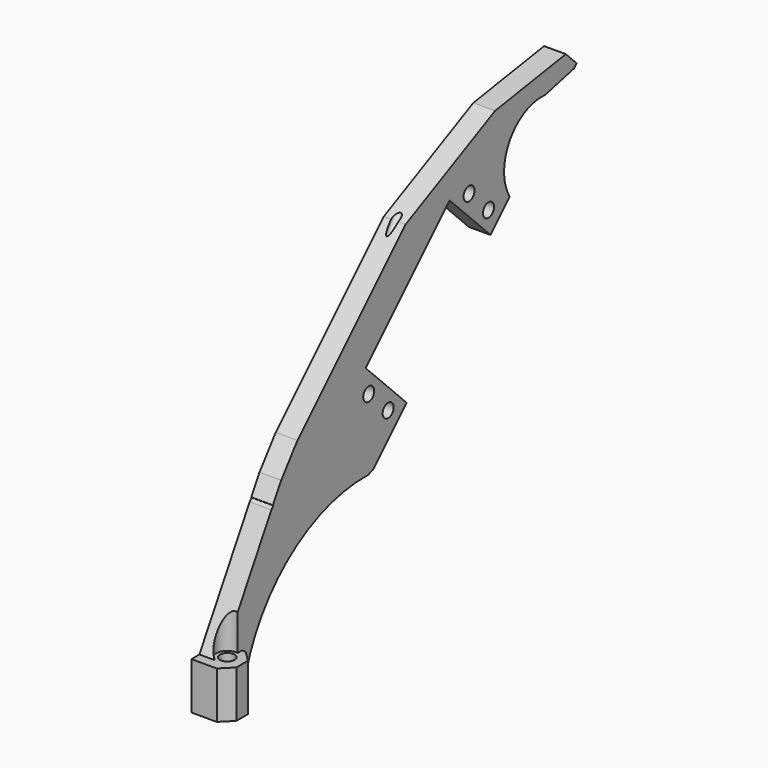
from build123d import *

# Parameters (mm, degrees)
CYLINDER025_R          = 1
CYLINDER025_DEPTH      = 96
CYLINDER025_ROLL_ANGLE = -33
CYLINDER020_R          = 2
CYLINDER020_DEPTH      = 16
CYLINDER024_R          = 3
CYLINDER024_DEPTH      = 16
CYLINDER022_R          = 3
CYLINDER022_DEPTH      = 16
BOX021_W               = 26
BOX021_H               = 23
BOX021_DEPTH           = 13
CYLINDER011_R          = 1.9
CYLINDER011_DEPTH      = 12
CYLINDER012_R          = 1.9
CYLINDER012_DEPTH      = 12
CYLINDER013_R          = 1.9
CYLINDER013_DEPTH      = 12
CYLINDER014_R          = 1.9
CYLINDER014_DEPTH      = 12
BOX008_W               = 41
BOX008_H               = 20
BOX008_DEPTH           = 12
BOX019_W               = 10
BOX019_H               = 10
BOX019_DEPTH           = 10
BOX019_PLACEMENT_ANGLE = 8
BOX018_W               = 14
BOX018_H               = 10
BOX018_DEPTH           = 10
BOX018_PLACEMENT_ANGLE = 16
BOX017_W               = 65
BOX017_H               = 11
BOX017_DEPTH           = 10
BOX017_PLACEMENT_ANGLE = 15
BOX016_W               = 76
BOX016_H               = 10
BOX016_DEPTH           = 10
BOX015_W               = 49
BOX015_H               = 10
BOX015_DEPTH           = 10
BOX015_PLACEMENT_ANGLE = -19
BOX014_W               = 53
BOX014_H               = 10
BOX014_DEPTH           = 10
BOX014_PLACEMENT_ANGLE = -36
BOX013_W               = 13
BOX013_H               = 11
BOX013_DEPTH           = 10
BOX012_W               = 23
BOX012_H               = 17
BOX012_DEPTH           = 10
BOX011_W               = 41
BOX011_H               = 6
BOX011_DEPTH           = 10
CYLINDER016_R          = 43
CYLINDER016_DEPTH      = 10
CYLINDER015_R          = 13
CYLINDER015_DEPTH      = 10
BOX010_W               = 37
BOX010_H               = 8
BOX010_DEPTH           = 12
BOX009_W               = 184
BOX009_H               = 34
BOX009_DEPTH           = 6
CHAMFER_SIZE           = 6
CHAMFER001_SIZE        = 1
CUT025_PITCH_ANGLE     = 90
FILLET_R               = 3
FILLET001_R            = 3
CUT035_ROLL_ANGLE      = -45
BOX024_W               = 10
BOX024_H               = 10
BOX024_DEPTH           = 13
CHAMFER002_SIZE        = 3
CHAMFER003_SIZE        = 3


with BuildPart() as cylinder025:
    # Cylinder025 → Cylinder025 (new body)
    with BuildSketch(Plane.XY):
        Circle(CYLINDER025_R)
    extrude(amount=CYLINDER025_DEPTH)


with BuildPart() as cylinder025_1:
    # Cylinder025 roll: moved
    add(cylinder025.part.rotate(Axis((0, 0, 0), (1, 0, 0)), CYLINDER025_ROLL_ANGLE))


with BuildPart() as cylinder025_2:
    # Cylinder025 placement: moved
    add(cylinder025_1.part.moved(Location((-2.5, 14, 31))))


with BuildPart() as cylinder020:
    # Cylinder020 → Cylinder020 (new body)
    with BuildSketch(Plane.XY.offset(9)):
        Circle(CYLINDER020_R)
    extrude(amount=CYLINDER020_DEPTH)


with BuildPart() as cylinder024:
    # Cylinder024 → Cylinder024 (new body)
    with BuildSketch(Plane.XY.offset(23)):
        Circle(CYLINDER024_R)
    extrude(amount=CYLINDER024_DEPTH)


with BuildPart() as not_used_cylinder001:
    # Cylinder022 → Cylinder022 (new body)
    with BuildSketch(Plane(origin=(0, -50, 23), x_dir=(1, 0, 0), z_dir=(0, 0, 1))):
        Circle(CYLINDER022_R)
    extrude(amount=CYLINDER022_DEPTH)


with BuildPart() as cube021:
    # Box021 → Box021 (new body)
    with BuildSketch(Plane(origin=(161, 15, -3), x_dir=(1, 0, 0), z_dir=(0, 0, 1))):
        with Locations((13, 11.5)):
            Rectangle(BOX021_W, BOX021_H)
    extrude(amount=BOX021_DEPTH)


with BuildPart() as cylinder011:
    # Cylinder011 → Cylinder011 (new body)
    with BuildSketch(Plane(origin=(38, 19.5, -1), x_dir=(1, 0, 0), z_dir=(0, 0, 1))):
        Circle(CYLINDER011_R)
    extrude(amount=CYLINDER011_DEPTH)


with BuildPart() as cylinder012:
    # Cylinder012 → Cylinder012 (new body)
    with BuildSketch(Plane(origin=(38, 29, -1), x_dir=(1, 0, 0), z_dir=(0, 0, 1))):
        Circle(CYLINDER012_R)
    extrude(amount=CYLINDER012_DEPTH)


with BuildPart() as cylinder013:
    # Cylinder013 → Cylinder013 (new body)
    with BuildSketch(Plane(origin=(87, 29, -1), x_dir=(1, 0, 0), z_dir=(0, 0, 1))):
        Circle(CYLINDER013_R)
    extrude(amount=CYLINDER013_DEPTH)


with BuildPart() as cylinder014:
    # Cylinder014 → Cylinder014 (new body)
    with BuildSketch(Plane(origin=(87, 19.5, -1), x_dir=(1, 0, 0), z_dir=(0, 0, 1))):
        Circle(CYLINDER014_R)
    extrude(amount=CYLINDER014_DEPTH)


with BuildPart() as cube008:
    # Box008 → Box008 (new body)
    with BuildSketch(Plane(origin=(42, 14, -1), x_dir=(1, 0, 0), z_dir=(0, 0, 1))):
        with Locations((20.5, 10)):
            Rectangle(BOX008_W, BOX008_H)
    extrude(amount=BOX008_DEPTH)


with BuildPart() as cube019:
    # Box019 → Box019 (new body)
    with BuildSketch(Plane.XY):
        with Locations((5, 5)):
            Rectangle(BOX019_W, BOX019_H)
    extrude(amount=BOX019_DEPTH)


with BuildPart() as cube019_1:
    # Box019 placement: moved
    add(cube019.part.moved(Location((106, -7, 0))).rotate(Axis((106, -7, 0), (0, 0, 1)), BOX019_PLACEMENT_ANGLE))


with BuildPart() as cube018:
    # Box018 → Box018 (new body)
    with BuildSketch(Plane.XY):
        with Locations((7, 5)):
            Rectangle(BOX018_W, BOX018_H)
    extrude(amount=BOX018_DEPTH)


with BuildPart() as cube018_1:
    # Box018 placement: moved
    add(cube018.part.moved(Location((174, 10, 0))).rotate(Axis((174, 10, 0), (0, 0, 1)), BOX018_PLACEMENT_ANGLE))


with BuildPart() as cube017:
    # Box017 → Box017 (new body)
    with BuildSketch(Plane.XY):
        with Locations((32.5, 5.5)):
            Rectangle(BOX017_W, BOX017_H)
    extrude(amount=BOX017_DEPTH)


with BuildPart() as cube017_1:
    # Box017 placement: moved
    add(cube017.part.moved(Location((115, -7, 0))).rotate(Axis((115, -7, 0), (0, 0, 1)), BOX017_PLACEMENT_ANGLE))


with BuildPart() as cube016:
    # Box016 → Box016 (new body)
    with BuildSketch(Plane(origin=(46, -7, 0), x_dir=(1, 0, 0), z_dir=(0, 0, 1))):
        with Locations((38, 5)):
            Rectangle(BOX016_W, BOX016_H)
    extrude(amount=BOX016_DEPTH)


with BuildPart() as cube015:
    # Box015 → Box015 (new body)
    with BuildSketch(Plane.XY):
        with Locations((24.5, 5)):
            Rectangle(BOX015_W, BOX015_H)
    extrude(amount=BOX015_DEPTH)


with BuildPart() as cube015_1:
    # Box015 placement: moved
    add(cube015.part.moved(Location((16, 5, 0))).rotate(Axis((16, 5, 0), (0, 0, 1)), BOX015_PLACEMENT_ANGLE))


with BuildPart() as cube014:
    # Box014 → Box014 (new body)
    with BuildSketch(Plane.XY):
        with Locations((26.5, 5)):
            Rectangle(BOX014_W, BOX014_H)
    extrude(amount=BOX014_DEPTH)


with BuildPart() as cube014_1:
    # Box014 placement: moved
    add(cube014.part.moved(Location((-16, 28, 0))).rotate(Axis((-16, 28, 0), (0, 0, 1)), BOX014_PLACEMENT_ANGLE))


with BuildPart() as cube013:
    # Box013 → Box013 (new body)
    with BuildSketch(Plane(origin=(0, 8, 0), x_dir=(1, 0, 0), z_dir=(0, 0, 1))):
        with Locations((6.5, 5.5)):
            Rectangle(BOX013_W, BOX013_H)
    extrude(amount=BOX013_DEPTH)


with BuildPart() as cube012:
    # Box012 → Box012 (new body)
    with BuildSketch(Plane(origin=(161, 0, 0), x_dir=(1, 0, 0), z_dir=(0, 0, 1))):
        with Locations((11.5, 8.5)):
            Rectangle(BOX012_W, BOX012_H)
    extrude(amount=BOX012_DEPTH)


with BuildPart() as cube011:
    # Box011 → Box011 (new body)
    with BuildSketch(Plane(origin=(120, 0, 0), x_dir=(1, 0, 0), z_dir=(0, 0, 1))):
        with Locations((20.5, 3)):
            Rectangle(BOX011_W, BOX011_H)
    extrude(amount=BOX011_DEPTH)


with BuildPart() as cylinder016:
    # Cylinder016 → Cylinder016 (new body)
    with BuildSketch(Plane(origin=(132, 63, 0), x_dir=(1, 0, 0), z_dir=(0, 0, 1))):
        Circle(CYLINDER016_R)
    extrude(amount=CYLINDER016_DEPTH)


with BuildPart() as cylinder015:
    # Cylinder015 → Cylinder015 (new body)
    with BuildSketch(Plane(origin=(20, 37, 0), x_dir=(1, 0, 0), z_dir=(0, 0, 1))):
        Circle(CYLINDER015_R)
    extrude(amount=CYLINDER015_DEPTH)


with BuildPart() as cube010:
    # Box010 → Box010 (new body)
    with BuildSketch(Plane.XY):
        with Locations((18.5, 4)):
            Rectangle(BOX010_W, BOX010_H)
    extrude(amount=BOX010_DEPTH)


with BuildPart() as cut035:
    # Box009 → Box009 (new body)
    with BuildSketch(Plane.XY):
        with Locations((92, 17)):
            Rectangle(BOX009_W, BOX009_H)
    extrude(amount=BOX009_DEPTH)

    # Cut008: cut Cube010
    add(cube010.part, mode=Mode.SUBTRACT)

    # Cut009: cut Cylinder015
    add(cylinder015.part, mode=Mode.SUBTRACT)

    # Cut010: cut Cylinder016
    add(cylinder016.part, mode=Mode.SUBTRACT)

    # Cut011: cut Cube011
    add(cube011.part, mode=Mode.SUBTRACT)

    # Cut012: cut Cube012
    add(cube012.part, mode=Mode.SUBTRACT)

    # Cut013: cut Cube013
    add(cube013.part, mode=Mode.SUBTRACT)

    # Cut014: cut Cube014
    add(cube014_1.part, mode=Mode.SUBTRACT)

    # Cut015: cut Cube015
    add(cube015_1.part, mode=Mode.SUBTRACT)

    # Cut016: cut Cube016
    add(cube016.part, mode=Mode.SUBTRACT)

    # Cut017: cut Cube017
    add(cube017_1.part, mode=Mode.SUBTRACT)

    # Cut018: cut Cube018
    add(cube018_1.part, mode=Mode.SUBTRACT)

    # Cut019: cut Cube019
    add(cube019_1.part, mode=Mode.SUBTRACT)

    # Cut020: cut Cube008
    add(cube008.part, mode=Mode.SUBTRACT)

    # Cut021: cut Cylinder014
    add(cylinder014.part, mode=Mode.SUBTRACT)

    # Cut022: cut Cylinder013
    add(cylinder013.part, mode=Mode.SUBTRACT)

    # Cut023: cut Cylinder012
    add(cylinder012.part, mode=Mode.SUBTRACT)

    # Cut024: cut Cylinder011
    add(cylinder011.part, mode=Mode.SUBTRACT)

    # Chamfer
    chamfer_edges = [cut035.edges().sort_by_distance(p)[0] for p in [
        (7.350889, 34, 3),
    ]]
    chamfer(chamfer_edges, length=CHAMFER_SIZE)

    # Chamfer001
    chamfer001_edges = [cut035.edges().sort_by_distance(p)[0] for p in [
        (100.250984, 34, 3),
    ]]
    chamfer(chamfer001_edges, length=CHAMFER001_SIZE)

    # Cut025: cut Cube021
    add(cube021.part, mode=Mode.SUBTRACT)


with BuildPart() as cut035_1:
    # Cut025 pitch: moved
    add(cut035.part.rotate(Axis((0, 0, 0), (0, 1, 0)), CUT025_PITCH_ANGLE))


with BuildPart() as cut035_2:
    # Cut025 placement: moved
    add(cut035_1.part.moved(Location((-5.5, -24, 171))))

    # Fillet
    fillet_edges = [cut035_2.edges().sort_by_distance(p)[0] for p in [
        (-2.5, 7.250984, 10),
    ]]
    fillet(fillet_edges, radius=FILLET_R)

    # Fillet001
    fillet001_edges = [cut035_2.edges().sort_by_distance(p)[0] for p in [
        (-2.5, -7.286299, 10),
    ]]
    fillet(fillet001_edges, radius=FILLET001_R)

    # Cut035: cut Not used cylinder001
    add(not_used_cylinder001.part, mode=Mode.SUBTRACT)


with BuildPart() as cut035_3:
    # Cut035 roll: moved
    add(cut035_2.part.rotate(Axis((0, 0, 0), (1, 0, 0)), CUT035_ROLL_ANGLE))


with BuildPart() as cut035_4:
    # Cut035 placement: moved
    add(cut035_3.part.moved(Location((0, -8, 5))))


with BuildPart() as leg:
    # Box024 → Box024 (new body)
    with BuildSketch(Plane(origin=(-5.5, -5.5, 10), x_dir=(1, 0, 0), z_dir=(0, 0, 1))):
        with Locations((5, 5)):
            Rectangle(BOX024_W, BOX024_H)
    extrude(amount=BOX024_DEPTH)

    # Fusion006: union Cut035
    add(cut035_4.part)

    # Cut036: cut Cylinder024
    add(cylinder024.part, mode=Mode.SUBTRACT)

    # Cut037: cut Cylinder020
    add(cylinder020.part, mode=Mode.SUBTRACT)

    # Chamfer002
    chamfer002_edges = [leg.edges().sort_by_distance(p)[0] for p in [
        (4.5, 4.5, 16.5),
    ]]
    chamfer(chamfer002_edges, length=CHAMFER002_SIZE)

    # Chamfer003
    chamfer003_edges = [leg.edges().sort_by_distance(p)[0] for p in [
        (4.5, -5.5, 16.5),
    ]]
    chamfer(chamfer003_edges, length=CHAMFER003_SIZE)

    # Cut038: cut Cylinder025
    add(cylinder025_2.part, mode=Mode.SUBTRACT)


solid = leg.part
